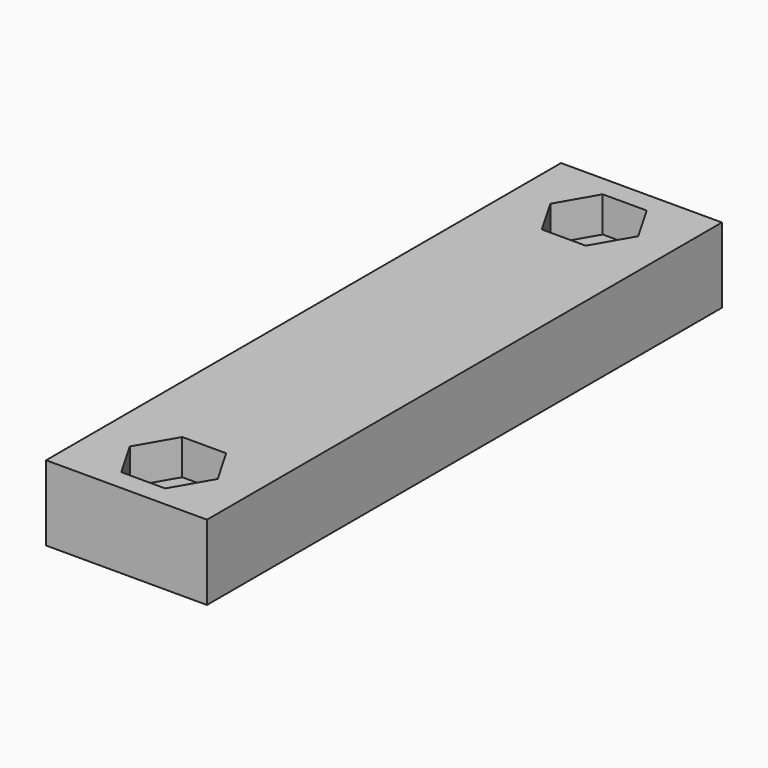
from build123d import *

# Parameters (mm, degrees)
F0_W     = 15
F0_H     = 60
F1_DEPTH = 7
F0_R     = 2.05
F2_DEPTH = 3.7


with BuildPart() as f1:
    # F0 (on Top) → F1 (new body)
    with BuildSketch(Plane.XY):
        Rectangle(F0_W, F0_H)
        Polygon((-2.049593, -20.95), (2.049593, -20.95), (4.099187, -24.5), (2.049593, -28.05), (-2.049593, -28.05), (-4.099187, -24.5), align=None, mode=Mode.SUBTRACT)
        Polygon((4.099187, 24.5), (2.049593, 20.95), (-2.049593, 20.95), (-4.099187, 24.5), (-2.049593, 28.05), (2.049593, 28.05), align=None, mode=Mode.SUBTRACT)
    extrude(amount=F1_DEPTH)

    # F0 (on Top) → F2 (join)
    with BuildSketch(Plane.XY):
        Polygon((4.099187, -24.5), (2.049593, -20.95), (-2.049593, -20.95), (-4.099187, -24.5), (-2.049593, -28.05), (2.049593, -28.05), align=None)
        with Locations((0, -24.5)):
            Circle(F0_R, mode=Mode.SUBTRACT)
        Polygon((-2.049593, 20.95), (2.049593, 20.95), (4.099187, 24.5), (2.049593, 28.05), (-2.049593, 28.05), (-4.099187, 24.5), align=None)
        with Locations((0, 24.5)):
            Circle(F0_R, mode=Mode.SUBTRACT)
    extrude(amount=F2_DEPTH)


solid = f1.part
